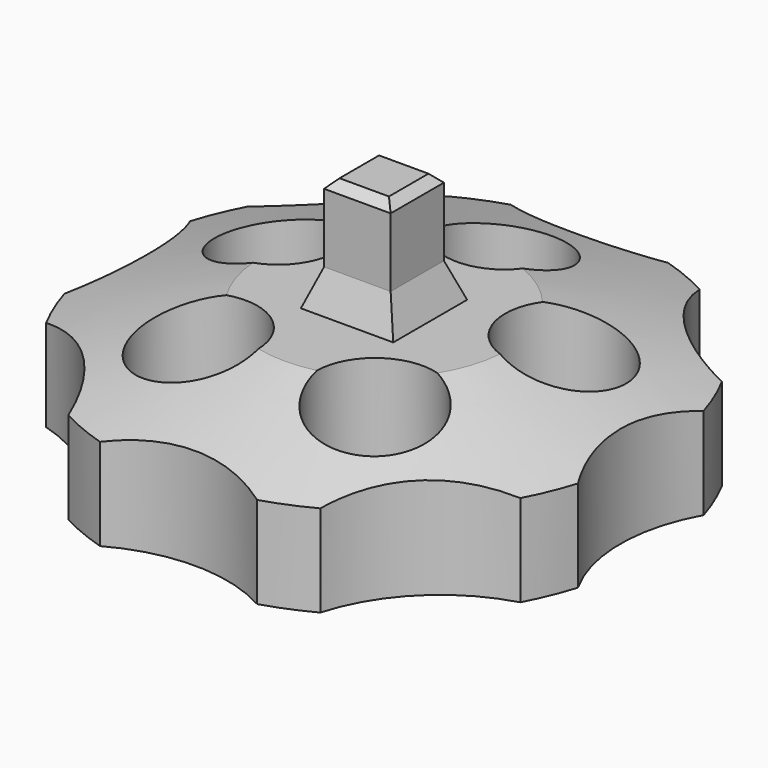
from build123d import *

# Parameters (mm, degrees)
SKETCH_R              = 25
PAD_DEPTH             = 12.5
SKETCH001_W           = 6.2
SKETCH001_H           = 6.2
PAD001_DEPTH          = 23
CHAMFER_ANGLE         = 70
CHAMFER_SIZE          = 1.2
POCKET_DEPTH          = 171.715492
POLARPATTERN_COUNT    = 8
CHAMFER001_SIZE       = 0.8
SKETCH004_R           = 5.5
POCKET001_DEPTH       = 165.840033
POLARPATTERN001_COUNT = 5


with BuildPart() as part:
    # Sketch → Pad (new body)
    with BuildSketch(Plane.XY):
        Circle(SKETCH_R)
    extrude(amount=PAD_DEPTH)

    # Sketch001 → Pad001 (join)
    with BuildSketch(Plane.XY):
        Rectangle(SKETCH001_W, SKETCH001_H)
    extrude(amount=PAD001_DEPTH)

    # Chamfer
    chamfer_edges = [part.edges().sort_by_distance(p)[0] for p in [
        (0, -3.1, 12.5),
        (3.1, 0, 12.5),
        (0, 3.1, 12.5),
        (-3.1, 0, 12.5),
    ]]
    chamfer_side = part.faces().sort_by_distance((-24.292893, 0, 12.5))[0]
    chamfer(chamfer_edges, length=CHAMFER_SIZE, angle=CHAMFER_ANGLE, reference=chamfer_side)

    # Sketch002 → Pocket (cut, through all)
    with BuildSketch(Plane.XY):
        with BuildLine():
            ThreePointArc((-15, 37), (0, 22), (15, 37))
            Line((-15, 37), (15, 37))
        make_face()
    pocket = extrude(amount=POCKET_DEPTH, mode=Mode.SUBTRACT)

    # PolarPattern: Pocket ×8 about axis
    polarpattern_axis = Axis((0, 0, 0), (0, 0, 1))
    for i in range(1, POLARPATTERN_COUNT):
        add(pocket.rotate(polarpattern_axis, i * 360 / POLARPATTERN_COUNT), mode=Mode.SUBTRACT)

    # Sketch003 → Groove (revolve, cut)
    with BuildSketch(Plane.XZ):
        Polygon((7.66865, 25.207804), (7.66865, 13.637294), (28.54884, 7.5), (28.54884, 25.207804), align=None)
    revolve(axis=Axis((0, 0, 0), (0, 0, 1)), mode=Mode.SUBTRACT)

    # Chamfer001
    chamfer001_edges = [part.edges().sort_by_distance(p)[0] for p in [
        (0, 3.1, 23),
        (3.1, 0, 23),
        (0, -3.1, 23),
        (-3.1, 0, 23),
    ]]
    chamfer(chamfer001_edges, length=CHAMFER001_SIZE)

    # Sketch004 → Pocket001 (cut, through all)
    with BuildSketch(Plane.XY):
        with Locations((0, 14)):
            Circle(SKETCH004_R)
    pocket001 = extrude(amount=POCKET001_DEPTH, mode=Mode.SUBTRACT)

    # PolarPattern001: Pocket001 ×5 about axis
    polarpattern001_axis = Axis((0, 0, 0), (0, 0, 1))
    for i in range(1, POLARPATTERN001_COUNT):
        add(pocket001.rotate(polarpattern001_axis, i * 360 / POLARPATTERN001_COUNT), mode=Mode.SUBTRACT)


solid = part.part
